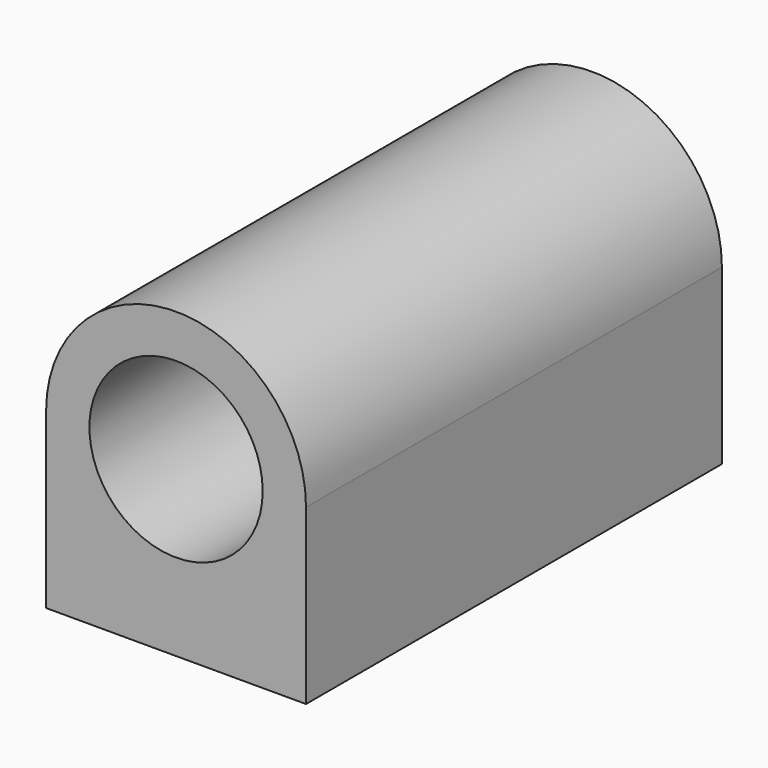
from build123d import *

# Parameters (mm, degrees)
F0_R     = 12.7
F1_DEPTH = 76.2
F2_R     = 1.651
F3_DEPTH = 12.7


with BuildPart() as f1:
    # F0 (on Front) → F1 (new body)
    with BuildSketch(Plane.XZ):
        with BuildLine():
            Line((19.05, -25.4), (19.05, 0))
            ThreePointArc((19.05, 0), (0, 19.05), (-19.05, 0))
            Line((-19.05, 0), (-19.05, -25.4))
            Line((-19.05, -25.4), (19.05, -25.4))
        make_face()
        Circle(F0_R, mode=Mode.SUBTRACT)
    extrude(amount=-F1_DEPTH)

    # F2 (on face) → F3 (cut)
    with BuildSketch(Plane(origin=(0, 0, -25.4), x_dir=(1, 0, 0), z_dir=(0, 0, -1))):
        with Locations((-12.7, -6.35)):
            Circle(F2_R)
        with Locations((12.7, -6.35)):
            Circle(F2_R)
        with Locations((-12.7, -69.85)):
            Circle(F2_R)
        with Locations((12.7, -69.85)):
            Circle(F2_R)
    extrude(amount=-F3_DEPTH, mode=Mode.SUBTRACT)


solid = f1.part
